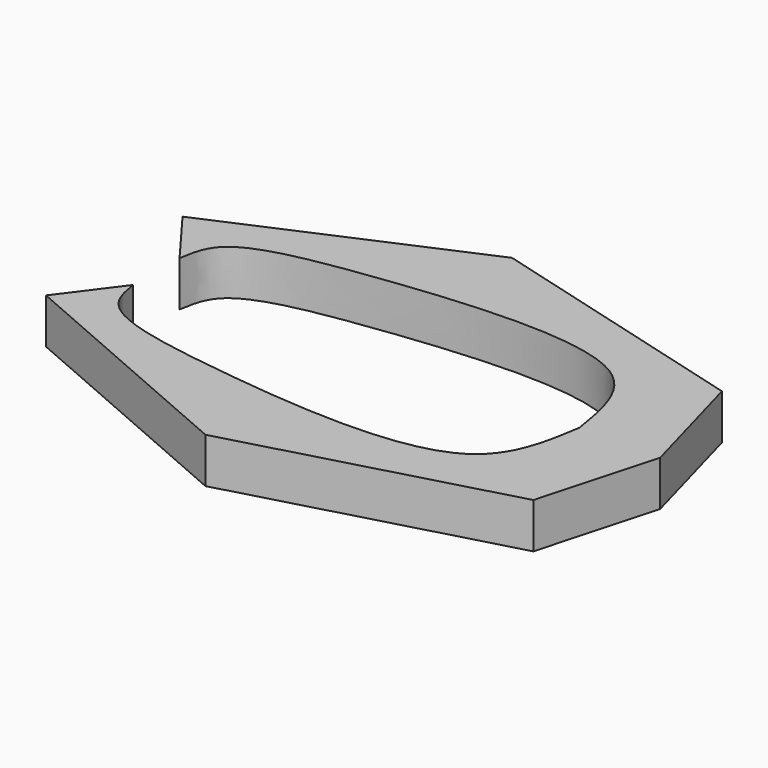
from build123d import *

# Parameters (mm, degrees)
F1_DEPTH = 25.4


with BuildPart() as f1:
    # F0 (on Top) → F1 (new body)
    with BuildSketch(Plane.XY):
        with BuildLine():
            Line((-148.6816704273, 47.9258783162), (-125.0530928373, 16.2725113332))
            add(Edge.make_bspline(
                [(-125.0530928373, 16.2725113332), (-123.9150552823, 23.5031928616), (-120.665136863, 44.1520062327), (-44.1513454458, 57.9289810707), (101.3631570312, 70.7386841043), (109.4138686502, 19.9221921677), (112.5700846314, 0)],
                knots=[0, 0, 0, 0, 0.1437514422, 0.4105140975, 0.7688968486, 1, 1, 1, 1], degree=3))
            add(Edge.make_bspline(
                [(-125.0530928373, -16.2725113332), (-123.9150552823, -23.5031928616), (-120.665136863, -44.1520062327), (-44.1513454458, -57.9289810707), (101.3631570312, -70.7386841043), (109.4138686502, -19.9221921677), (112.5700846314, 0)],
                knots=[0, 0, 0, 0, 0.1437514422, 0.4105140975, 0.7688968486, 1, 1, 1, 1], degree=3))
            Line((-125.0530928373, -16.2725113332), (-148.6816704273, -47.9258783162))
            Line((-148.6816704273, -47.9258783162), (-11.3684628159, -107.6660379767))
            Line((-11.3684628159, -107.6660379767), (139.7652179003, -66.204585135))
            Line((139.7652179003, -66.204585135), (158.0439209938, 0))
            Line((158.0439209938, 0), (139.7652179003, 66.204585135))
            Line((139.7652179003, 66.204585135), (-11.3684628159, 107.6660379767))
            Line((-11.3684628159, 107.6660379767), (-148.6816704273, 47.9258783162))
        make_face()
    extrude(amount=F1_DEPTH)


solid = f1.part
